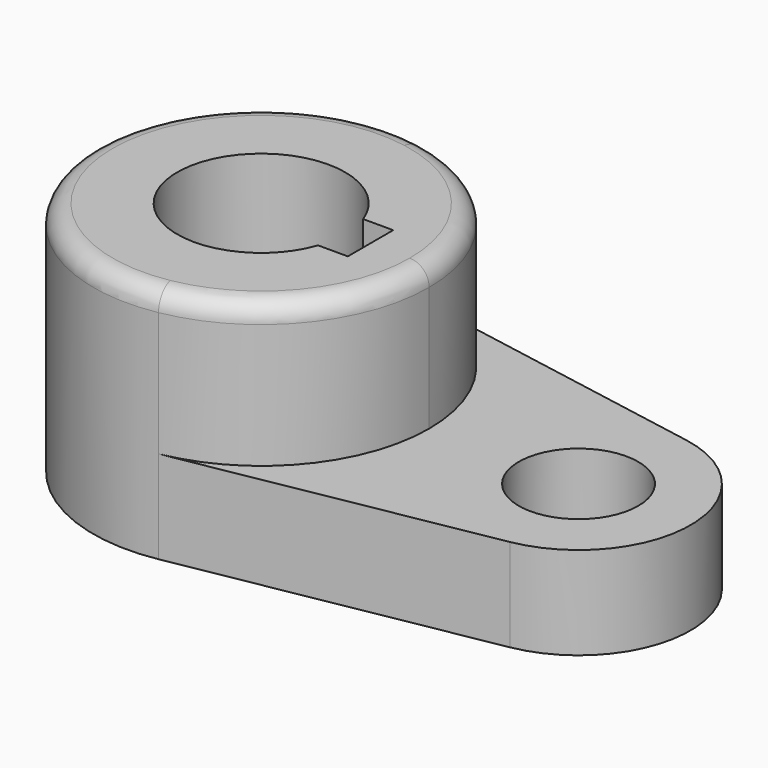
from build123d import *

# Parameters (mm, degrees)
F1_DEPTH = 40.2336
F2_R     = 3.302
F0_R     = 10.16
F3_DEPTH = 15.7734


with BuildPart() as f1:
    # F0 (on Top) → F1 (new body)
    with BuildSketch(Plane.XY):
        with BuildLine():
            ThreePointArc((-26.205953, -28.126541), (-9.332576, -18.336262), (-2.6736, 0))
            ThreePointArc((-2.6736, 0), (-9.332576, 18.336262), (-26.205953, 28.126541))
            ThreePointArc((-26.205953, 28.126541), (-59.8236, 0), (-26.205953, -28.126541))
        make_face()
        with BuildLine():
            ThreePointArc((-17.770372, -4.740256), (-45.53581, -0.091099), (-17.831916, 4.911744))
            Line((-17.831916, 4.911744), (-12.7193, 4.911744))
            Line((-12.7193, 4.911744), (-12.7193, -4.740256))
            Line((-12.7193, -4.740256), (-17.770372, -4.740256))
        make_face(mode=Mode.SUBTRACT)
    extrude(amount=F1_DEPTH)

    # F2
    f2_edges = [f1.edges().sort_by_distance(p)[0] for p in [
        (-36.291247, 28.126541, 40.2336),
    ]]
    fillet(f2_edges, radius=F2_R)

    # F0 (on Top) → F3 (join)
    with BuildSketch(Plane.XY):
        with BuildLine():
            ThreePointArc((-26.205953, 28.126541), (-9.332576, 18.336262), (-2.6736, 0))
            ThreePointArc((-2.6736, 0), (-9.332576, -18.336262), (-26.205953, -28.126541))
            Line((-26.205953, -28.126541), (26.088164, -18.751028))
            ThreePointArc((26.088164, -18.751028), (41.7764, 0), (26.088164, 18.751028))
            Line((26.088164, 18.751028), (-26.205953, 28.126541))
        make_face()
        with Locations((22.7264, 0)):
            Circle(F0_R, mode=Mode.SUBTRACT)
    extrude(amount=F3_DEPTH)


solid = f1.part
